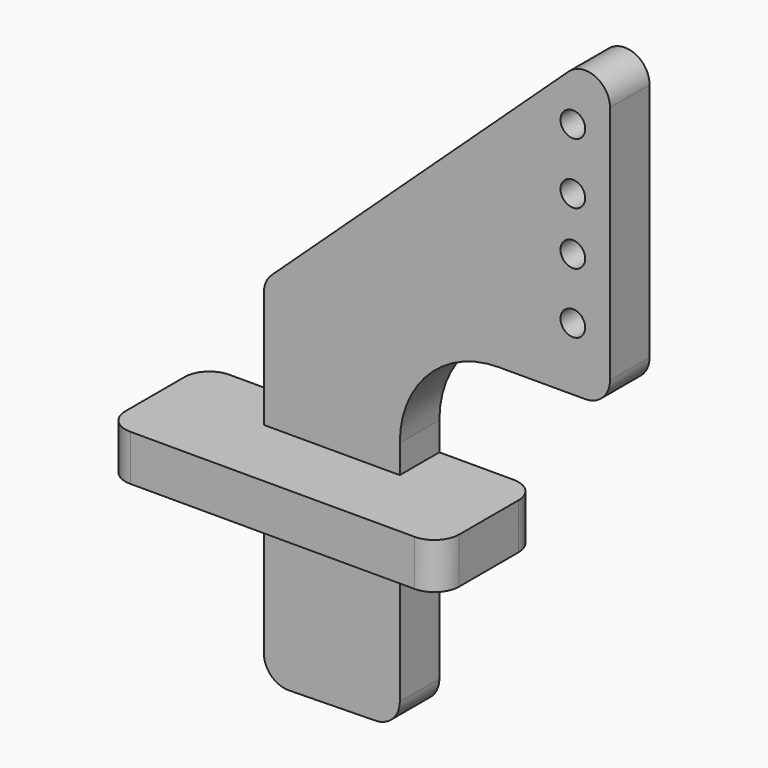
from build123d import *

# Parameters (mm, degrees)
F1_DEPTH = 2
F2_R     = 1
F3_R     = 4
F4_W     = 13.5
F4_H     = 1.8558323957
F5_DEPTH = 5
F6_R     = 1
F7_D     = 1


with BuildPart() as f1:
    # F0 (on Front) → F1 (new body)
    with BuildSketch(Plane.XZ):
        Polygon((5.5, 12.1071428571), (5.5, 7), (14, 7), (14, 20), align=None)
        Polygon((5.5, 12.1071428571), (0, 7), (5.5, 7), align=None)
        Polygon((5.5, 7), (0, 7), (0, -7.2836415662), (5.5, -7.188023068), align=None)
    extrude(amount=F1_DEPTH)

    # F2
    f2_edges = [f1.edges().sort_by_distance(p)[0] for p in [
        (0, -1, 7),
        (14, -1, 20),
        (14, -1, 7),
        (0, -1, -7.283642),
        (5.5, -1, -7.188023),
    ]]
    fillet(f2_edges, radius=F2_R)

    # F3
    f3_edges = [f1.edges().sort_by_distance(p)[0] for p in [
        (5.5, -1, 7),
    ]]
    fillet(f3_edges, radius=F3_R)

    # F4 (on Front) → F5 (join)
    with BuildSketch(Plane.XZ):
        with Locations((2.75, 0.9279161978)):
            Rectangle(F4_W, F4_H)
    extrude(amount=F5_DEPTH)

    # F6
    f6_edges = [f1.edges().sort_by_distance(p)[0] for p in [
        (9.5, -5, 0.927916),
        (-4, -5, 0.927916),
        (-4, 0, 0.927916),
        (9.5, 0, 0.927916),
    ]]
    fillet(f6_edges, radius=F6_R)

    # F7 (through all)
    with Locations(Plane(origin=(0, 0, 0), x_dir=(1, 0, 0), z_dir=(0, 1, 0))):
        with Locations((12.4978395179, -16.6222192347), (12.4978395179, -14.1531368718), (12.4978395179, -12.0000707684), (12.4978395179, -9.5441835001)):
            Hole(F7_D / 2)


solid = f1.part
